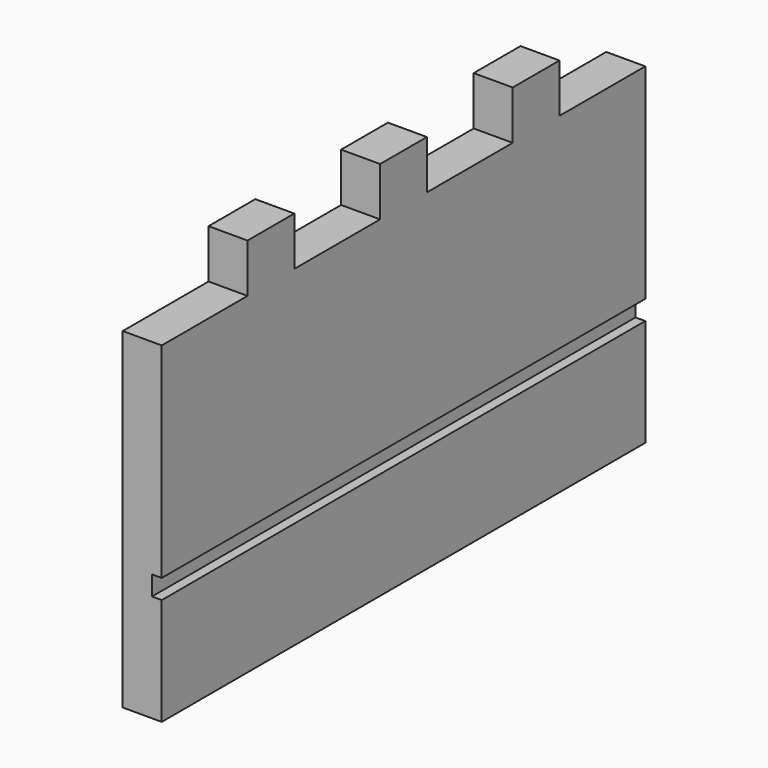
from build123d import *

# Parameters (mm, degrees)
F0_W     = 30
F0_H     = 25
F1_DEPTH = 20
F2_W     = 310
F2_H     = 10
F3_DEPTH = 5


with BuildPart() as f1:
    # F0 (on Right) → F1 (new body)
    with BuildSketch(Plane.YZ):
        Polygon((-136.914517, 16.054544), (-191.914517, 16.054544), (-191.914517, -153.945456), (118.085483, -153.945456), (118.085483, 16.054544), (63.085483, 16.054544), (33.085483, 16.054544), (-21.914517, 16.054544), (-51.914517, 16.054544), (-106.914517, 16.054544), align=None)
        with Locations((-121.914517, 28.554544)):
            Rectangle(F0_W, F0_H)
        with Locations((-36.914517, 28.554544)):
            Rectangle(F0_W, F0_H)
        with Locations((48.085483, 28.554544)):
            Rectangle(F0_W, F0_H)
    extrude(amount=F1_DEPTH)

    # F2 (on face) → F3 (cut)
    with BuildSketch(Plane.YZ.offset(20)):
        with Locations((-36.914517, -93.945456)):
            Rectangle(F2_W, F2_H)
    extrude(amount=-F3_DEPTH, mode=Mode.SUBTRACT)


solid = f1.part
